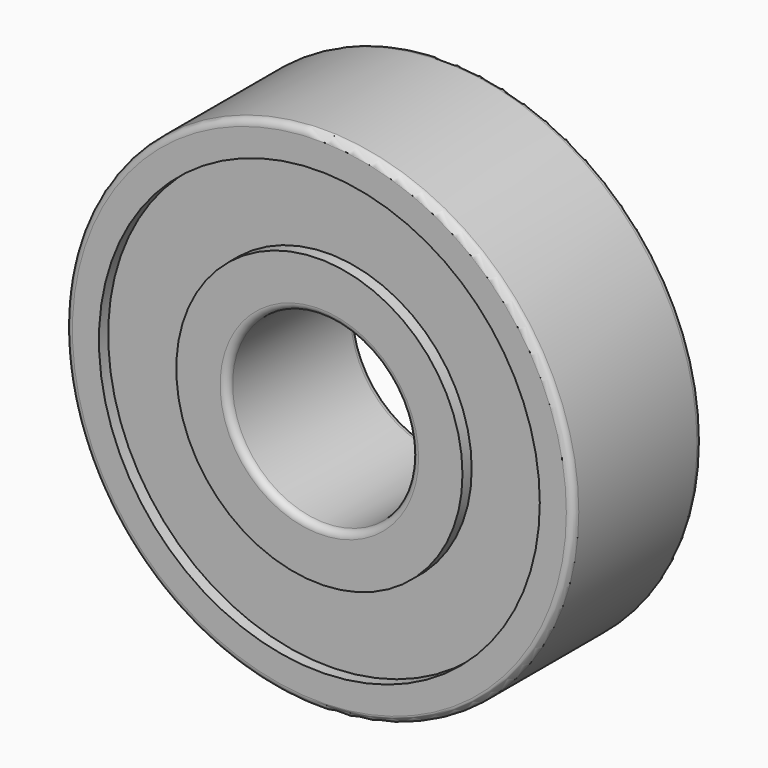
from build123d import *

# Parameters (mm, degrees)
F0_R     = 11
F0_R_2   = 4
F1_DEPTH = 7
F2_R     = 9.55
F2_R_2   = 6.2
F3_DEPTH = 0.5
F4_R     = 9.55
F4_R_2   = 6.2
F5_DEPTH = 0.5
F6_R     = 0.3
F7_R     = 0.3
F8_R     = 0.3


with BuildPart() as f1:
    # F0 (on Front) → F1 (new body)
    with BuildSketch(Plane.XZ):
        Circle(F0_R)
        Circle(F0_R_2, mode=Mode.SUBTRACT)
    extrude(amount=F1_DEPTH)

    # F2 (on face) → F3 (cut)
    with BuildSketch(Plane(origin=(0, 0, 0), x_dir=(-1, 0, 0), z_dir=(0, 1, 0))):
        Circle(F2_R)
        Circle(F2_R_2, mode=Mode.SUBTRACT)
    extrude(amount=-F3_DEPTH, mode=Mode.SUBTRACT)

    # F4 (on face) → F5 (cut)
    with BuildSketch(Plane.XZ.offset(7)):
        Circle(F4_R)
        Circle(F4_R_2, mode=Mode.SUBTRACT)
    extrude(amount=-F5_DEPTH, mode=Mode.SUBTRACT)

    # F6
    f6_edges = [f1.edges().sort_by_distance(p)[0] for p in [
        (-11, 0, 0),
    ]]
    fillet(f6_edges, radius=F6_R)

    # F7
    f7_edges = [f1.edges().sort_by_distance(p)[0] for p in [
        (-11, -7, 0),
        (-4, -7, 0),
    ]]
    fillet(f7_edges, radius=F7_R)

    # F8
    f8_edges = [f1.edges().sort_by_distance(p)[0] for p in [
        (-4, 0, 0),
    ]]
    fillet(f8_edges, radius=F8_R)


solid = f1.part
